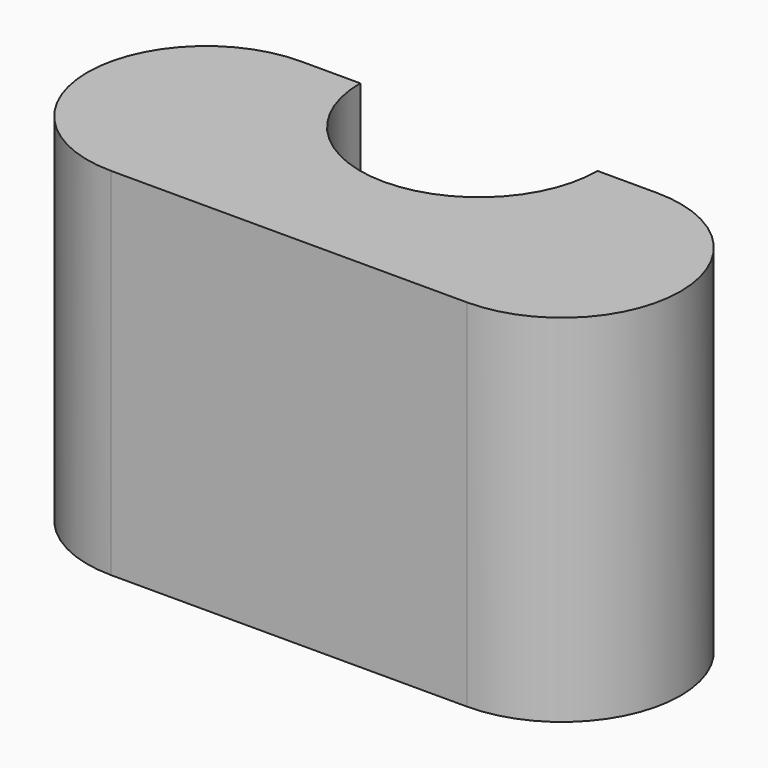
from build123d import *

# Parameters (mm, degrees)
F1_DEPTH = 30


with BuildPart() as f1:
    # F0 (on Top) → F1 (new body)
    with BuildSketch(Plane.XY):
        with BuildLine():
            ThreePointArc((10.634393, 10), (0.634393, 0), (-9.365607, 10))
            Line((-9.365607, 10), (-14.365607, 10))
            ThreePointArc((-14.365607, 10), (-24.365607, 0), (-14.365607, -10))
            Line((-14.365607, -10), (15.634393, -10))
            ThreePointArc((15.634393, -10), (25.634393, 0), (15.634393, 10))
            Line((15.634393, 10), (10.634393, 10))
        make_face()
    extrude(amount=F1_DEPTH)


solid = f1.part
